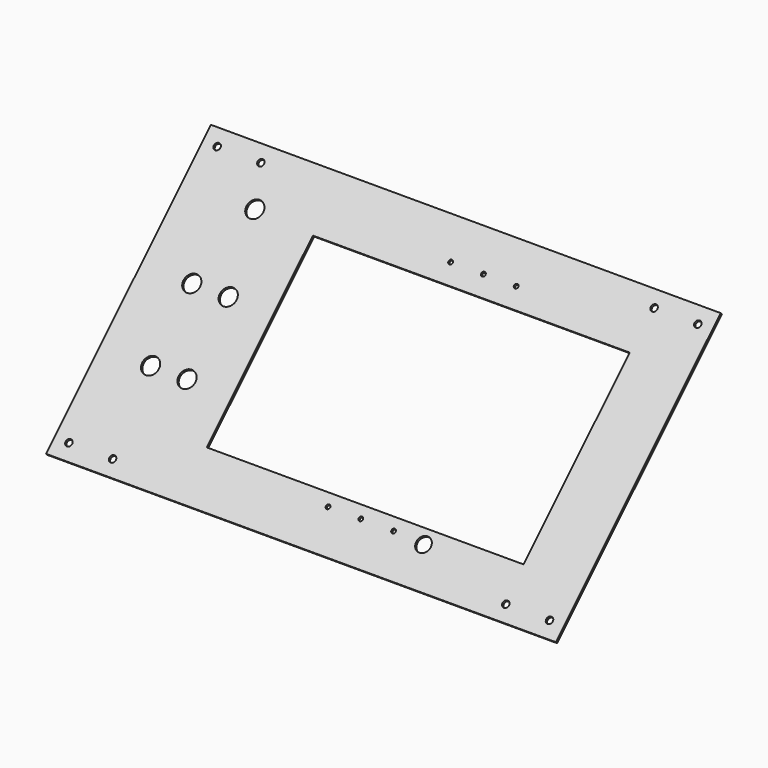
from build123d import *

# Parameters (mm, degrees)
SKETCH034_W          = 700
SKETCH034_H          = 400
SKETCH034_R          = 11.5
SKETCH034_R_2        = 10
SKETCH034_W_2        = 435
SKETCH034_H_2        = 257.5
PAD001_DEPTH         = 3.175
SKETCH044_R          = 2.9
HOLE005_DEPTH        = 25
SKETCH045_R          = 4.5
HOLE006_DEPTH        = 25
BODY_PLACEMENT_ANGLE = 315


with BuildPart() as part:
    # Sketch034 → Pad001 (new body)
    with BuildSketch(Plane.XY):
        with Locations((350, 200)):
            Rectangle(SKETCH034_W, SKETCH034_H)
        with Locations((120, 230)):
            Circle(SKETCH034_R, mode=Mode.SUBTRACT)
        with Locations((100, 330)):
            Circle(SKETCH034_R, mode=Mode.SUBTRACT)
        with Locations((120, 130)):
            Circle(SKETCH034_R, mode=Mode.SUBTRACT)
        with Locations((70, 230)):
            Circle(SKETCH034_R, mode=Mode.SUBTRACT)
        with Locations((490, 50)):
            Circle(SKETCH034_R_2, mode=Mode.SUBTRACT)
        with Locations((70, 130)):
            Circle(SKETCH034_R, mode=Mode.SUBTRACT)
        with Locations((400, 196.25)):
            Rectangle(SKETCH034_W_2, SKETCH034_H_2, mode=Mode.SUBTRACT)
    extrude(amount=-PAD001_DEPTH)

    # Sketch044 → Hole005 (cut)
    with BuildSketch(Plane.XY):
        with Locations((357.5, 350)):
            Circle(SKETCH044_R)
        with Locations((402.5, 350)):
            Circle(SKETCH044_R)
        with Locations((447.5, 350)):
            Circle(SKETCH044_R)
        with Locations((357.5, 52.5)):
            Circle(SKETCH044_R)
        with Locations((402.5, 52.5)):
            Circle(SKETCH044_R)
        with Locations((447.5, 52.5)):
            Circle(SKETCH044_R)
    extrude(amount=-HOLE005_DEPTH, mode=Mode.SUBTRACT)

    # Sketch045 → Hole006 (cut)
    with BuildSketch(Plane.XY):
        with Locations((20, 20)):
            Circle(SKETCH045_R)
        with Locations((680, 20)):
            Circle(SKETCH045_R)
        with Locations((680, 380)):
            Circle(SKETCH045_R)
        with Locations((20, 380)):
            Circle(SKETCH045_R)
        with Locations((80, 20)):
            Circle(SKETCH045_R)
        with Locations((80, 380)):
            Circle(SKETCH045_R)
        with Locations((620, 20)):
            Circle(SKETCH045_R)
        with Locations((620, 380)):
            Circle(SKETCH045_R)
    extrude(amount=-HOLE006_DEPTH, mode=Mode.SUBTRACT)


with BuildPart() as part_1:
    # Body placement: moved
    add(part.part.moved(Location((0, 365, 0))).rotate(Axis((0, 365, 0), (-1, 0, 0)), BODY_PLACEMENT_ANGLE))


solid = part_1.part
